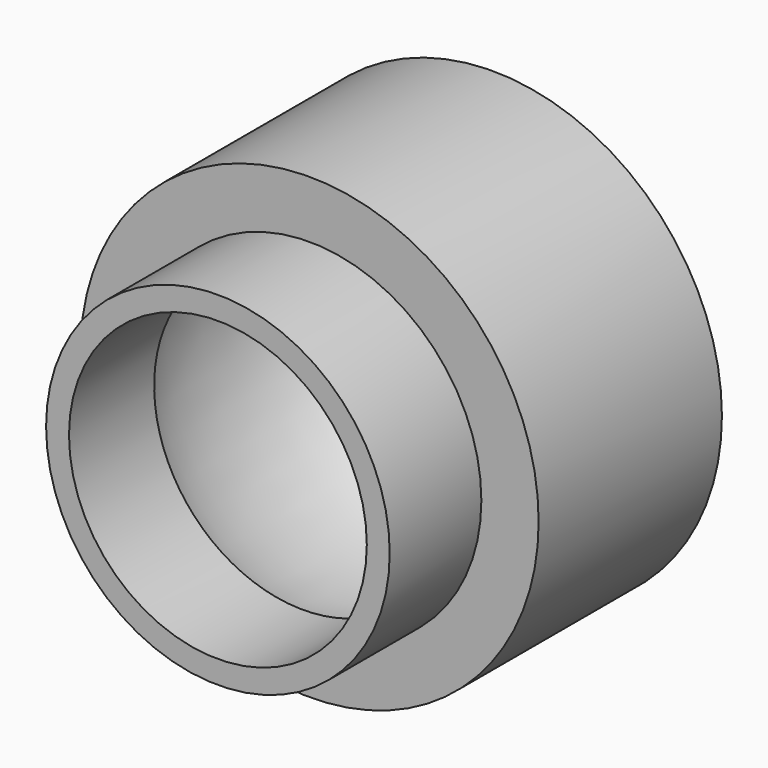
from build123d import *

# Parameters (mm, degrees)
F0_R     = 25.4
F0_R_2   = 19.05
F1_DEPTH = 12.7
F0_R_3   = 16.51
F2_DEPTH = 25.4


with BuildPart() as f1:
    # F0 (on Front) → F1 (new body, symmetric)
    with BuildSketch(Plane.XZ):
        Circle(F0_R)
        Circle(F0_R_2, mode=Mode.SUBTRACT)
    extrude(amount=F1_DEPTH, both=True)

    # F0 (on Front) → F2 (join)
    with BuildSketch(Plane.XZ):
        Circle(F0_R_2)
        Circle(F0_R_3, mode=Mode.SUBTRACT)
    extrude(amount=F2_DEPTH)

    # F3 (on Right) → F4 (revolve, cut)
    with BuildSketch(Plane.YZ):
        with BuildLine():
            add(Edge.make_bspline(
                [(13.654734, 16.975831), (13.654734, 25.700052), (-6.827367, 21.337942), (-27.309468, 16.975831), (-6.827367, 12.613721), (13.654734, 8.25161), (13.654734, 16.975831)],
                knots=[0, 0, 0, 2.094395, 2.094395, 4.18879, 4.18879, 6.283185, 6.283185, 6.283185], degree=2, weights=[1, 0.5, 1, 0.5, 1, 0.5, 1]))
        make_face()
    revolve(axis=Axis((0, 12.7, 0), (0, -1, 0)), mode=Mode.SUBTRACT)


solid = f1.part
